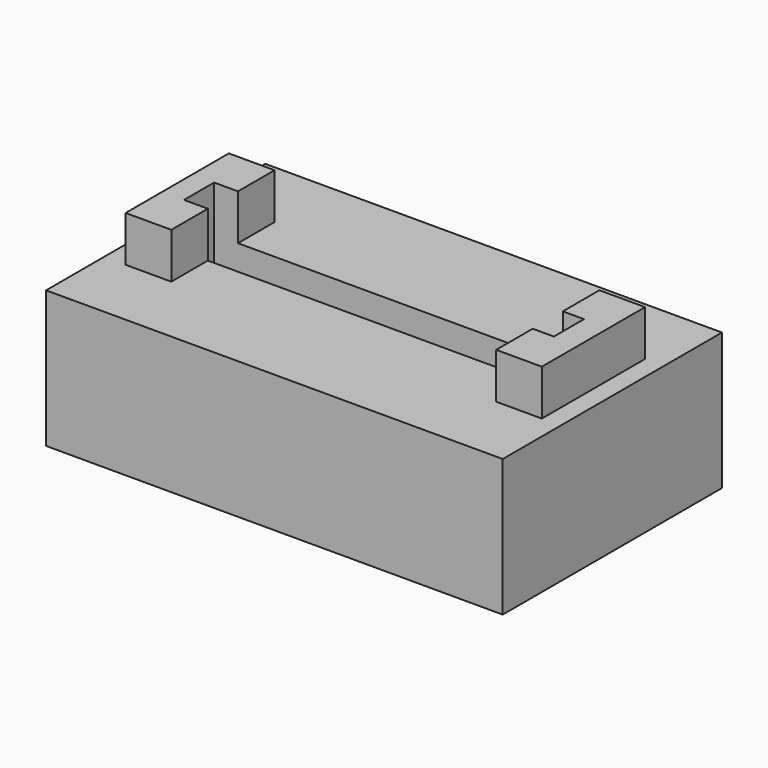
from build123d import *

# Parameters (mm, degrees)
F1_DEPTH = 5
F0_W     = 50
F0_H     = 30
F2_DEPTH = 15
F3_DEPTH = 20


with BuildPart() as f1:
    # F0 (on Top) → F1 (new body)
    with BuildSketch(Plane.XY):
        Polygon((17.932241, -2.0625), (20.25, -2.0625), (20.25, 2.0625), (17.932241, 2.0625), (-17.639818, 2.0625), (-20.25, 2.0625), (-20.25, -2.0625), (-17.639818, -2.0625), align=None)
    extrude(amount=F1_DEPTH)

    # F0 (on Top) → F2 (join)
    with BuildSketch(Plane.XY):
        Rectangle(F0_W, F0_H)
        Polygon((17.932241, -7.0625), (17.932241, -2.0625), (-17.639818, -2.0625), (-17.639818, -7.0625), (-22.639818, -7.0625), (-22.639818, 7.0625), (-17.639818, 7.0625), (-17.639818, 2.0625), (17.932241, 2.0625), (17.932241, 7.0625), (22.932241, 7.0625), (22.932241, -7.0625), align=None, mode=Mode.SUBTRACT)
    extrude(amount=F2_DEPTH)

    # F0 (on Top) → F3 (join)
    with BuildSketch(Plane.XY):
        Polygon((-17.639818, -7.0625), (-17.639818, -2.0625), (-20.25, -2.0625), (-20.25, 2.0625), (-17.639818, 2.0625), (-17.639818, 7.0625), (-22.639818, 7.0625), (-22.639818, -7.0625), align=None)
        Polygon((20.25, 2.0625), (20.25, -2.0625), (17.932241, -2.0625), (17.932241, -7.0625), (22.932241, -7.0625), (22.932241, 7.0625), (17.932241, 7.0625), (17.932241, 2.0625), align=None)
    extrude(amount=F3_DEPTH)


solid = f1.part
